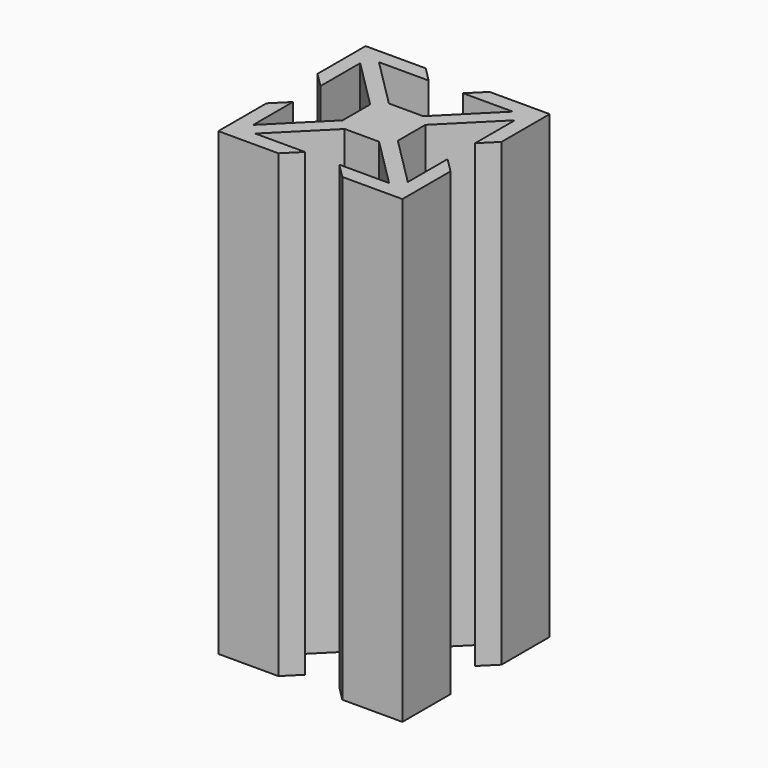
from build123d import *

# Parameters (mm, degrees)
F1_DEPTH = 50


with BuildPart() as f1:
    # F0 (on Top) → F1 (new body)
    with BuildSketch(Plane.XY):
        Polygon((-8.4, -7.268629), (-10, -8.868629), (-10, -10), (-8.868629, -10), (-7.268629, -8.4), (-1.868629, -3), (-3, -3), (-3, -1.868629), align=None)
        Polygon((-7.268629, -8.4), (-8.868629, -10), (-3.468629, -10), (-1.868629, -8.4), align=None)
        Polygon((-8.4, -1.868629), (-10, -3.468629), (-10, -8.868629), (-8.4, -7.268629), align=None)
        Polygon((1.868629, 3), (-1.868629, 3), (-3, 1.868629), (-3, -1.868629), (-1.868629, -3), (1.868629, -3), (3, -1.868629), (3, 1.868629), align=None)
        Polygon((-1.868629, -3), (-3, -1.868629), (-3, -3), align=None)
        Polygon((3, -3), (3, -1.868629), (1.868629, -3), align=None)
        Polygon((8.4, -7.268629), (3, -1.868629), (3, -3), (1.868629, -3), (7.268629, -8.4), (8.868629, -10), (10, -10), (10, -8.868629), align=None)
        Polygon((8.868629, -10), (7.268629, -8.4), (1.868629, -8.4), (3.468629, -10), align=None)
        Polygon((8.4, -1.868629), (8.4, -7.268629), (10, -8.868629), (10, -3.468629), align=None)
        Polygon((10, 3.468629), (10, 8.868629), (8.4, 7.268629), (8.4, 1.868629), align=None)
        Polygon((10, 10), (8.868629, 10), (7.268629, 8.4), (1.868629, 3), (3, 3), (3, 1.868629), (8.4, 7.268629), (10, 8.868629), align=None)
        Polygon((8.868629, 10), (3.468629, 10), (1.868629, 8.4), (7.268629, 8.4), align=None)
        Polygon((3, 3), (1.868629, 3), (3, 1.868629), align=None)
        Polygon((-3, 1.868629), (-1.868629, 3), (-3, 3), align=None)
        Polygon((-8.868629, 10), (-10, 10), (-10, 8.868629), (-8.4, 7.268629), (-3, 1.868629), (-3, 3), (-1.868629, 3), (-7.268629, 8.4), align=None)
        Polygon((-8.4, 7.268629), (-10, 8.868629), (-10, 3.468629), (-8.4, 1.868629), align=None)
        Polygon((-3.468629, 10), (-8.868629, 10), (-7.268629, 8.4), (-1.868629, 8.4), align=None)
    extrude(amount=F1_DEPTH)


solid = f1.part
